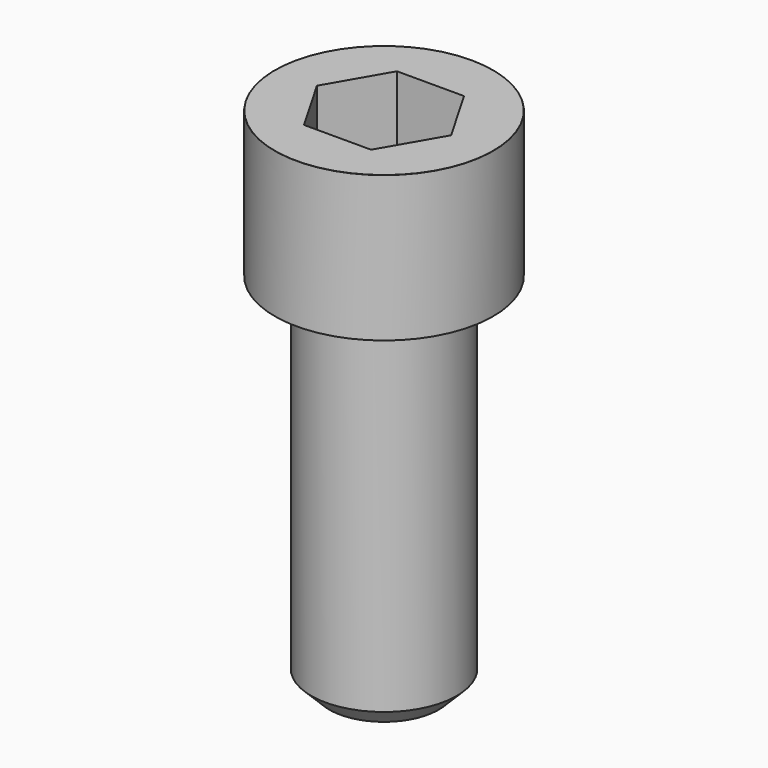
from build123d import *

# Parameters (mm, degrees)
POCKET_DEPTH = 19.15


with BuildPart() as part:
    # Sketch → Revolve (revolve)
    with BuildSketch(Plane.YZ):
        with BuildLine():
            Line((11.999, 0), (18, 0))
            Line((18, 0), (18, 23.97229))
            ThreePointArc((18, 23.97229), (17.991884, 23.991884), (17.97229, 24))
            Line((17.97229, 24), (0, 24))
            Line((0, -60), (0, 24))
            Line((9, -60), (0, -60))
            Line((12, -57), (9, -60))
            Line((12, -0.2), (12, -57))
            Line((11.999, 0), (12, -0.2))
        make_face()
    revolve(axis=Axis((0, 0, 0), (0, 0, 1)))

    # Sketch001 → Pocket (cut)
    with BuildSketch(Plane.XY.offset(24)):
        Polygon((11.056258, 0), (5.528129, 9.575), (-5.528129, 9.575), (-11.056258, 0), (-5.528129, -9.575), (5.528129, -9.575), align=None)
    extrude(amount=-POCKET_DEPTH, mode=Mode.SUBTRACT)


solid = part.part
